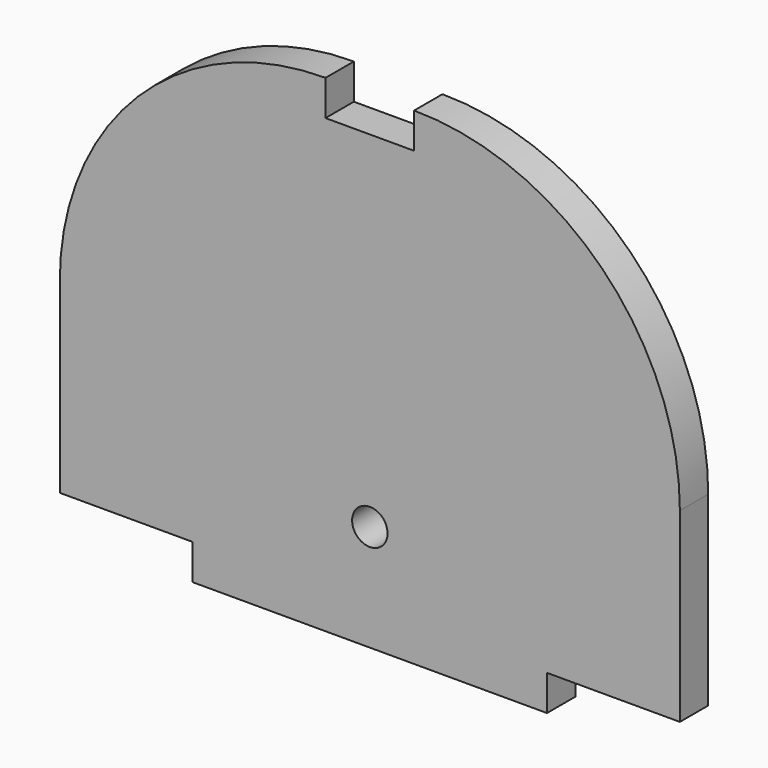
from build123d import *

# Parameters (mm, degrees)
SKETCH_R     = 2
PAD_DEPTH    = 4
SKETCH001_W  = 15
SKETCH001_H  = 4
POCKET_DEPTH = 5


with BuildPart() as part:
    # Sketch → Pad (new body)
    with BuildSketch(Plane.XZ):
        with BuildLine():
            Line((0, 25), (0, 0))
            Line((0, 0), (70, 0))
            Line((70, 25), (70, 0))
            ThreePointArc((70, 25), (61.213203, 46.213203), (40, 55))
            Line((40, 51), (40, 55))
            Line((30, 51), (40, 51))
            Line((30, 55), (30, 51))
            ThreePointArc((30, 55), (8.786797, 46.213203), (0, 25))
        make_face()
        with Locations((35, 12)):
            Circle(SKETCH_R, mode=Mode.SUBTRACT)
    extrude(amount=PAD_DEPTH)

    # Sketch001 (on Face11 of Pad) → Pocket (cut)
    with BuildSketch(Plane.XZ.offset(4)):
        with Locations((7.5, 2)):
            Rectangle(SKETCH001_W, SKETCH001_H)
        with Locations((62.5, 2)):
            Rectangle(SKETCH001_W, SKETCH001_H)
    extrude(amount=-POCKET_DEPTH, mode=Mode.SUBTRACT)


solid = part.part
